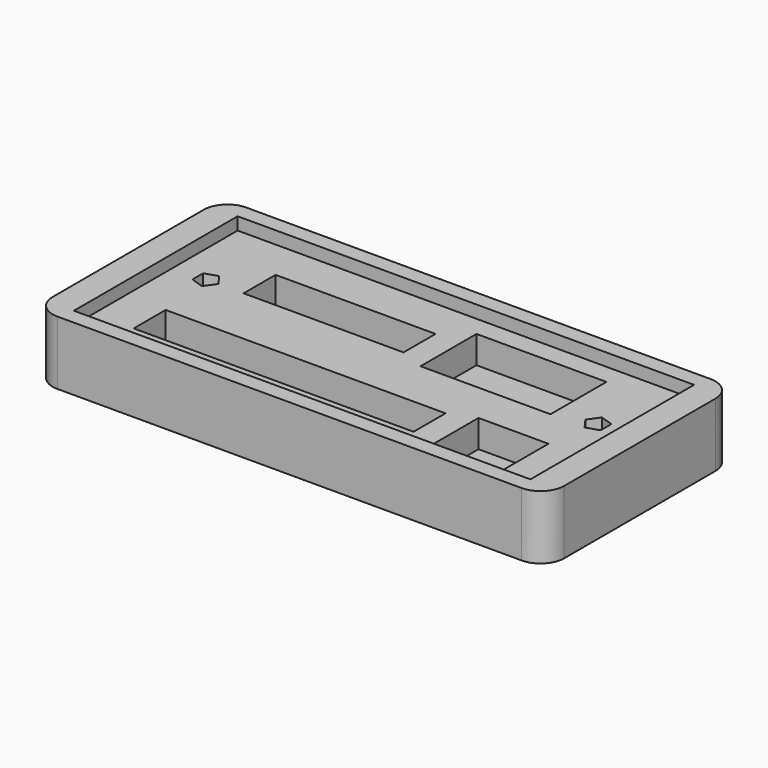
from build123d import *

# Parameters (mm, degrees)
SKETCH_W        = 65
SKETCH_H        = 30
PAD_DEPTH       = 8.1
SKETCH001_W     = 58
SKETCH001_H     = 26
POCKET_DEPTH    = 1.6
POCKET001_DEPTH = 5.5
SKETCH003_W     = 20.32
SKETCH003_H     = 5.08
SKETCH003_W_2   = 16.51
SKETCH003_H_2   = 8.89
SKETCH003_W_3   = 8.89
SKETCH003_H_3   = 8.225
SKETCH003_W_4   = 35.56
POCKET002_DEPTH = 3.5
FILLET_R        = 3


with BuildPart() as part:
    # Sketch → Pad (new body)
    with BuildSketch(Plane.XY):
        Rectangle(SKETCH_W, SKETCH_H)
    extrude(amount=PAD_DEPTH)

    # Sketch001 (on DatumPlane) → Pocket (cut)
    with BuildSketch(Plane.XY.offset(8.1)):
        Rectangle(SKETCH001_W, SKETCH001_H)
    extrude(amount=-POCKET_DEPTH, mode=Mode.SUBTRACT)

    # Sketch002 (on DatumPlane) → Pocket001 (cut)
    with BuildSketch(Plane.XY.offset(8.1)):
        Polygon((-23.315, 2.84), (-24.316925, 4.219032), (-25.938075, 3.692289), (-25.938075, 1.987711), (-24.316925, 1.460968), align=None)
        Polygon((23.315, 2.84), (24.316925, 1.460968), (25.938075, 1.987711), (25.938075, 3.692289), (24.316925, 4.219032), align=None)
    extrude(amount=-POCKET001_DEPTH, mode=Mode.SUBTRACT)

    # Sketch003 (on DatumPlane) → Pocket002 (cut)
    with BuildSketch(Plane.XY.offset(6.5)):
        with Locations((-9.95, 5.38)):
            Rectangle(SKETCH003_W, SKETCH003_H)
        with Locations((11.64, 6.015)):
            Rectangle(SKETCH003_W_2, SKETCH003_H_2)
        with Locations((19.26, -7.6225)):
            Rectangle(SKETCH003_W_3, SKETCH003_H_3)
        with Locations((-6.14, -7.32)):
            Rectangle(SKETCH003_W_4, SKETCH003_H)
    extrude(amount=-POCKET002_DEPTH, mode=Mode.SUBTRACT)

    # Fillet
    fillet_edges = [part.edges().sort_by_distance(p)[0] for p in [
        (-32.5, -15, 4.05),
        (32.5, -15, 4.05),
        (32.5, 15, 4.05),
        (-32.5, 15, 4.05),
    ]]
    fillet(fillet_edges, radius=FILLET_R)


solid = part.part
